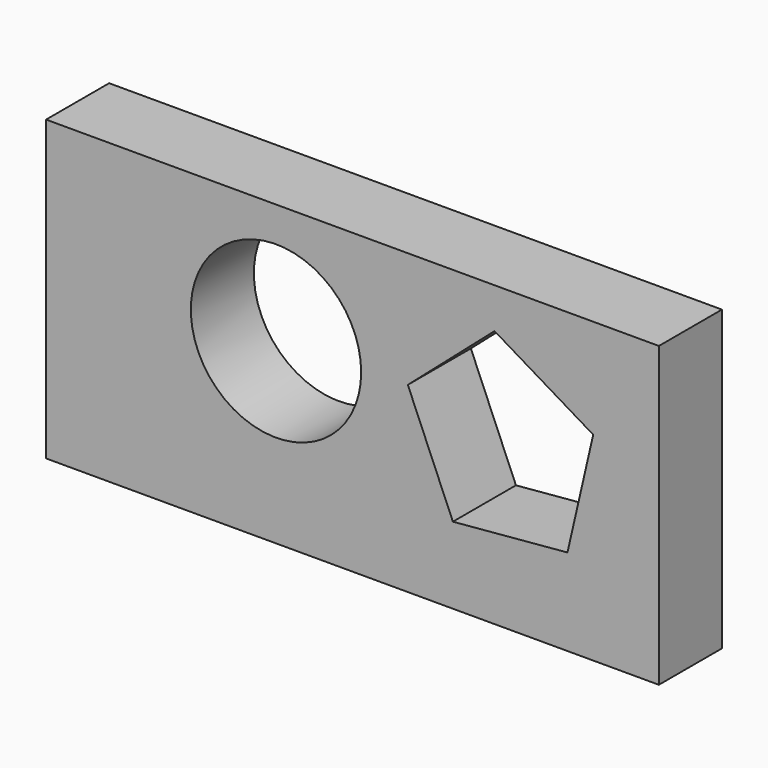
from build123d import *

# Parameters (mm, degrees)
F0_W     = 197.526522
F0_H     = 96.156877
F0_R     = 27.452888
F1_DEPTH = 25.4


with BuildPart() as f1:
    # F0 (on Front) → F1 (new body)
    with BuildSketch(Plane.XZ):
        with Locations((35.741519, 10.025931)):
            Rectangle(F0_W, F0_H)
        with Locations((11.08718, 19.393688)):
            Circle(F0_R, mode=Mode.SUBTRACT)
        Polygon((113.338566, 26.044908), (105.036274, -10.088419), (68.105889, -13.358281), (53.583948, 20.754159), (81.53928, 45.106669), align=None, mode=Mode.SUBTRACT)
    extrude(amount=F1_DEPTH)


solid = f1.part
